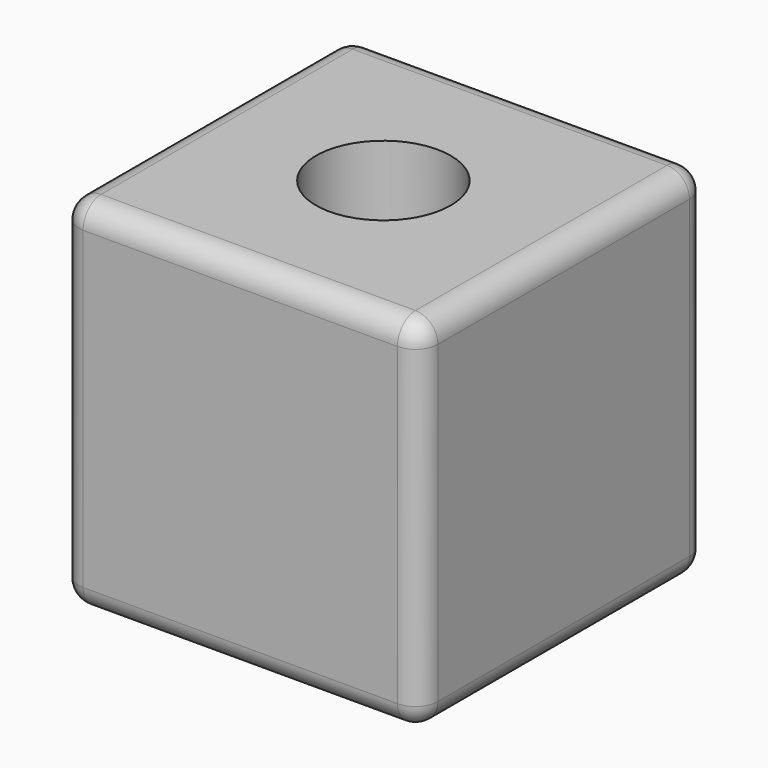
from build123d import *

# Parameters (mm, degrees)
F0_W     = 80
F0_H     = 80
F1_DEPTH = 80
F2_R     = 15
F3_DEPTH = 80.001
F4_R     = 5


with BuildPart() as f1:
    # F0 (on Top) → F1 (new body)
    with BuildSketch(Plane.XY):
        with Locations((-17.1653, -2.895599)):
            Rectangle(F0_W, F0_H)
    extrude(amount=F1_DEPTH)

    # F2 (on face) → F3 (cut, through all)
    with BuildSketch(Plane.XY.offset(80)):
        with Locations((-17.100001, -3.15)):
            Circle(F2_R)
    extrude(amount=-F3_DEPTH, mode=Mode.SUBTRACT)

    # F4
    f4_edges = [f1.edges().sort_by_distance(p)[0] for p in [
        (-17.1653, 37.104401, 80),
        (-57.1653, -2.895599, 80),
        (-17.1653, -42.895599, 80),
        (22.8347, -2.895599, 80),
        (-57.1653, 37.104401, 40),
        (-57.1653, -42.895599, 40),
        (-57.1653, -2.895599, 0),
        (22.8347, 37.104401, 40),
        (22.8347, -42.895599, 40),
        (22.8347, -2.895599, 0),
        (-17.1653, 37.104401, 0),
        (-17.1653, -42.895599, 0),
    ]]
    fillet(f4_edges, radius=F4_R)


solid = f1.part
